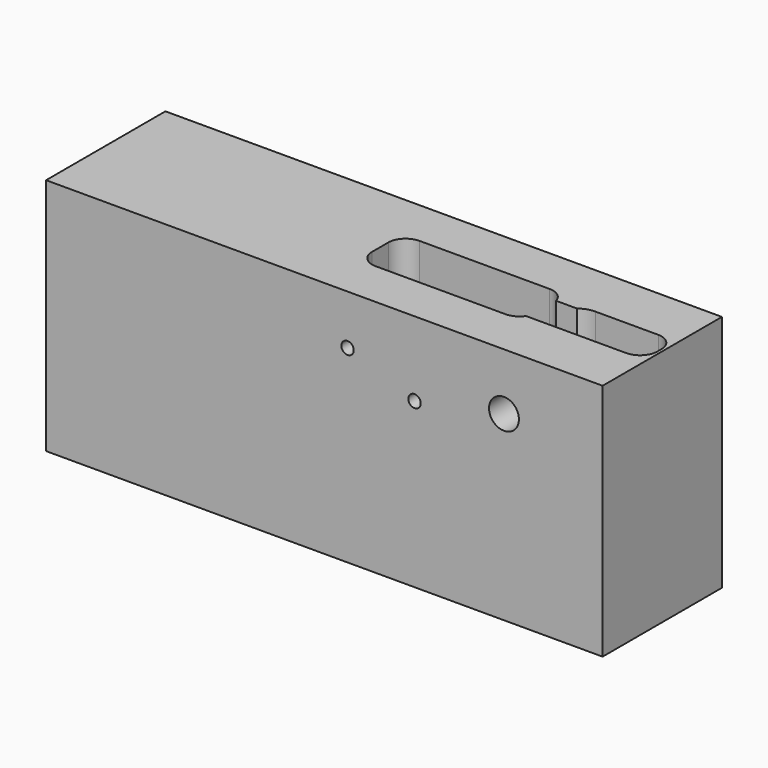
from build123d import *

# Parameters (mm, degrees)
F0_W      = 177.8
F0_H      = 47.6504
F1_DEPTH  = 76.2
F2_R      = 4.7752
F2_R_2    = 1.9812
F3_DEPTH  = 47.6514
F5_DEPTH  = 16.002
F7_DEPTH  = 33.528
F9_DEPTH  = 31.7246
F11_DEPTH = 31.7246


with BuildPart() as f1:
    # F0 (on Top) → F1 (new body)
    with BuildSketch(Plane.XY):
        with Locations((88.911714, 52.4002)):
            Rectangle(F0_W, F0_H)
    extrude(amount=F1_DEPTH)

    # F2 (on face) → F3 (cut, through all)
    with BuildSketch(Plane.XZ.offset(-28.575)):
        with Locations((146.303014, 58.0644)):
            Circle(F2_R)
        with Locations((117.728014, 52.3494)):
            Circle(F2_R_2)
        with Locations((96.315814, 60.325)):
            Circle(F2_R_2)
    extrude(amount=-F3_DEPTH, mode=Mode.SUBTRACT)

    # F4 (on face) → F5 (cut)
    with BuildSketch(Plane.XY.offset(76.2)):
        with BuildLine():
            Line((176.910014, 51.587385), (176.910014, 53.214231))
            ThreePointArc((176.910014, 53.214231), (175.329273, 57.08812), (171.489579, 58.7502))
            Line((171.489579, 58.7502), (151.347379, 58.7502))
            ThreePointArc((151.347379, 58.7502), (145.959225, 56.518354), (143.727379, 51.1302))
            Line((143.727379, 51.1302), (143.727379, 49.2252))
            ThreePointArc((143.727379, 49.2252), (144.657315, 46.980136), (146.902379, 46.0502))
            Line((146.902379, 46.0502), (171.385514, 46.0502))
            ThreePointArc((171.385514, 46.0502), (175.292693, 47.676486), (176.910014, 51.587385))
        make_face()
    extrude(amount=-F5_DEPTH, mode=Mode.SUBTRACT)

    # F6 (on face) → F7 (cut)
    with BuildSketch(Plane.XY.offset(76.2)):
        with BuildLine():
            Line((117.829614, 56.3626), (108.482414, 56.3626))
            ThreePointArc((108.482414, 56.3626), (105.680574, 55.20204), (104.520014, 52.4002))
            ThreePointArc((104.520014, 52.4002), (105.680574, 49.59836), (108.482414, 48.4378))
            Line((108.482414, 48.4378), (117.829614, 48.4378))
            ThreePointArc((117.829614, 48.4378), (120.631454, 49.59836), (121.792014, 52.4002))
            ThreePointArc((121.792014, 52.4002), (120.631454, 55.20204), (117.829614, 56.3626))
        make_face()
    extrude(amount=-F7_DEPTH, mode=Mode.SUBTRACT)

    # F8 (on face) → F9 (cut)
    with BuildSketch(Plane.XY.offset(76.2)):
        with BuildLine():
            Line((134.771414, 61.1632), (93.242414, 61.1632))
            ThreePointArc((93.242414, 61.1632), (89.327022, 59.541392), (87.705214, 55.626))
            Line((87.705214, 55.626), (87.705214, 49.1744))
            ThreePointArc((87.705214, 49.1744), (89.327022, 45.259008), (93.242414, 43.6372))
            Line((93.242414, 43.6372), (134.771414, 43.6372))
            ThreePointArc((134.771414, 43.6372), (138.686805, 45.259008), (140.308614, 49.1744))
            Line((140.308614, 49.1744), (140.308614, 55.626))
            ThreePointArc((140.308614, 55.626), (138.686805, 59.541392), (134.771414, 61.1632))
        make_face()
    extrude(amount=-F9_DEPTH, mode=Mode.SUBTRACT)

    # F10 (on face) → F11 (cut)
    with BuildSketch(Plane.XY.offset(76.2)):
        with BuildLine():
            Line((147.242814, 57.1754), (139.34862, 57.1754))
            ThreePointArc((139.34862, 57.1754), (137.103556, 56.245464), (136.17362, 54.0004))
            Line((136.17362, 54.0004), (136.17362, 49.2252))
            ThreePointArc((136.17362, 49.2252), (137.103556, 46.980136), (139.34862, 46.0502))
            Line((139.34862, 46.0502), (147.242814, 46.0502))
            ThreePointArc((147.242814, 46.0502), (151.158205, 47.672008), (152.780014, 51.5874))
            Line((152.780014, 51.5874), (152.780014, 51.6382))
            ThreePointArc((152.780014, 51.6382), (151.158205, 55.553592), (147.242814, 57.1754))
        make_face()
    extrude(amount=-F11_DEPTH, mode=Mode.SUBTRACT)


solid = f1.part
